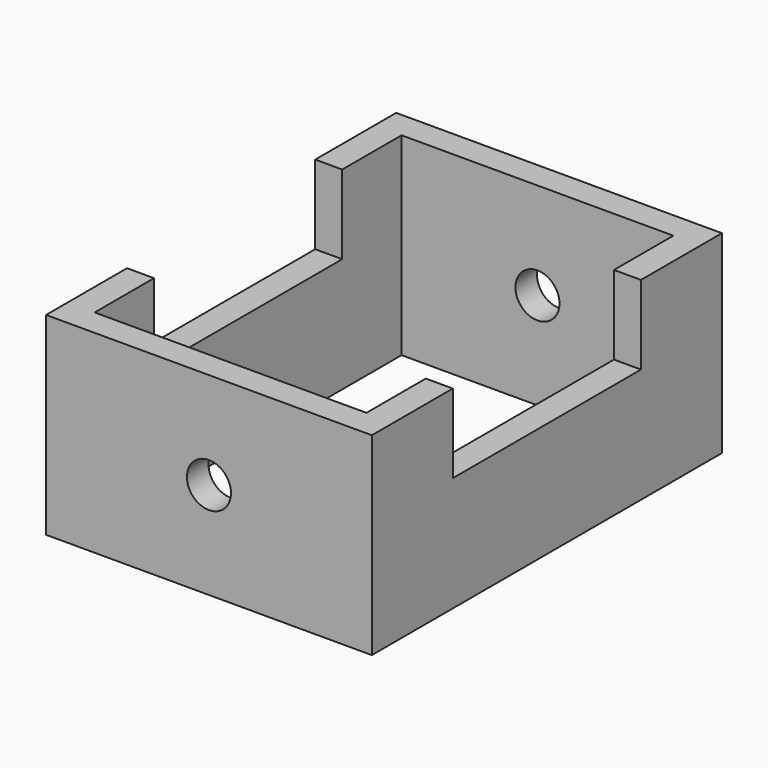
from build123d import *

# Parameters (mm, degrees)
F0_W     = 122.6633450469
F0_H     = 164.7901384103
F0_W_2   = 102.3433450469
F0_H_2   = 144.4701384103
F1_DEPTH = 72.898
F2_R     = 8.301996535
F3_DEPTH = 244.094
F4_W     = 10.16
F4_H     = 88.5901384103
F5_DEPTH = 29.718


with BuildPart() as f1:
    # F0 (on Top) → F1 (new body)
    with BuildSketch(Plane.XY):
        with Locations((-22.7750174733, 0)):
            Rectangle(F0_W, F0_H)
        with Locations((-22.7750174733, 0)):
            Rectangle(F0_W_2, F0_H_2, mode=Mode.SUBTRACT)
    extrude(amount=F1_DEPTH)

    # F2 (on face) → F3 (cut)
    with BuildSketch(Plane(origin=(0, 82.3950692052, 0), x_dir=(-1, 0, 0), z_dir=(0, 1, 0))):
        with Locations((22.7750174733, 36.449)):
            Circle(F2_R)
    extrude(amount=-F3_DEPTH, mode=Mode.SUBTRACT)

    # F4 (on face) → F5 (cut)
    with BuildSketch(Plane.XY.offset(72.898)):
        with Locations((33.4766550502, 0)):
            Rectangle(F4_W, F4_H)
        with Locations((-79.0266899967, 0)):
            Rectangle(F4_W, F4_H)
    extrude(amount=-F5_DEPTH, mode=Mode.SUBTRACT)


solid = f1.part
